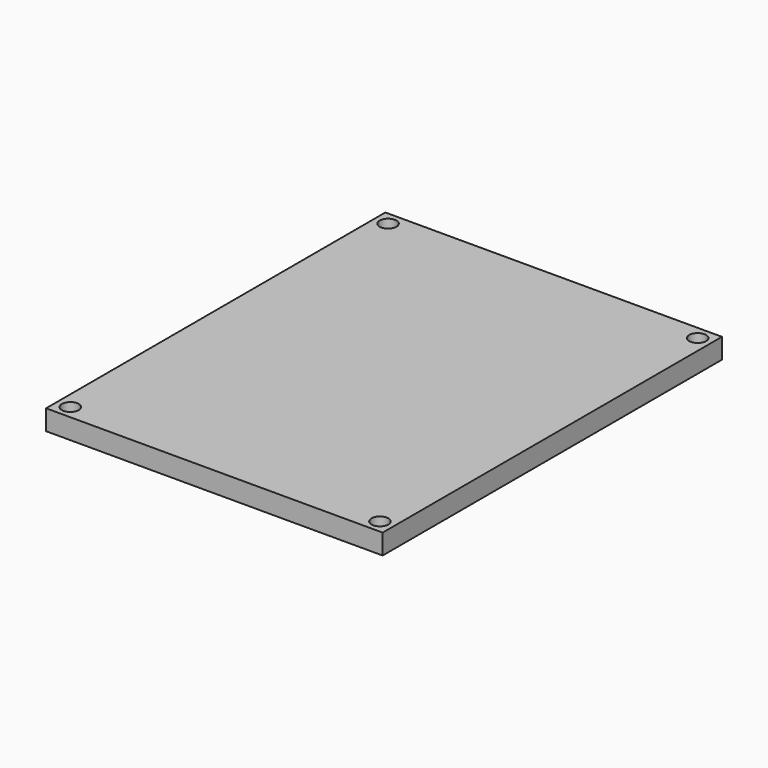
from build123d import *

# Parameters (mm, degrees)
F0_R     = 1.5875
F0_W     = 53.34
F0_H     = 69.85
F1_DEPTH = 3.81


with BuildPart() as f1:
    # F0 (on Top) → F1 (new body)
    with BuildSketch(Plane.XY):
        Polygon((-27.997967, 55.347468), (-33.077967, 55.347468), (-33.077967, 50.267468), (-33.077967, -19.582532), (-33.077967, -24.662532), (-27.997967, -24.662532), (25.342033, -24.662532), (30.422033, -24.662532), (30.422033, -19.582532), (30.422033, 50.267468), (30.422033, 55.347468), (25.342033, 55.347468), align=None)
        with Locations((-30.537967, -22.122532)):
            Circle(F0_R, mode=Mode.SUBTRACT)
        with Locations((27.882033, -22.122532)):
            Circle(F0_R, mode=Mode.SUBTRACT)
        with Locations((-1.327967, 15.342468)):
            Rectangle(F0_W, F0_H, mode=Mode.SUBTRACT)
        with Locations((-30.537967, 52.807468)):
            Circle(F0_R, mode=Mode.SUBTRACT)
        with Locations((27.882033, 52.807468)):
            Circle(F0_R, mode=Mode.SUBTRACT)
        with Locations((-1.327967, 15.342468)):
            Rectangle(F0_W, F0_H)
    extrude(amount=F1_DEPTH)


solid = f1.part
